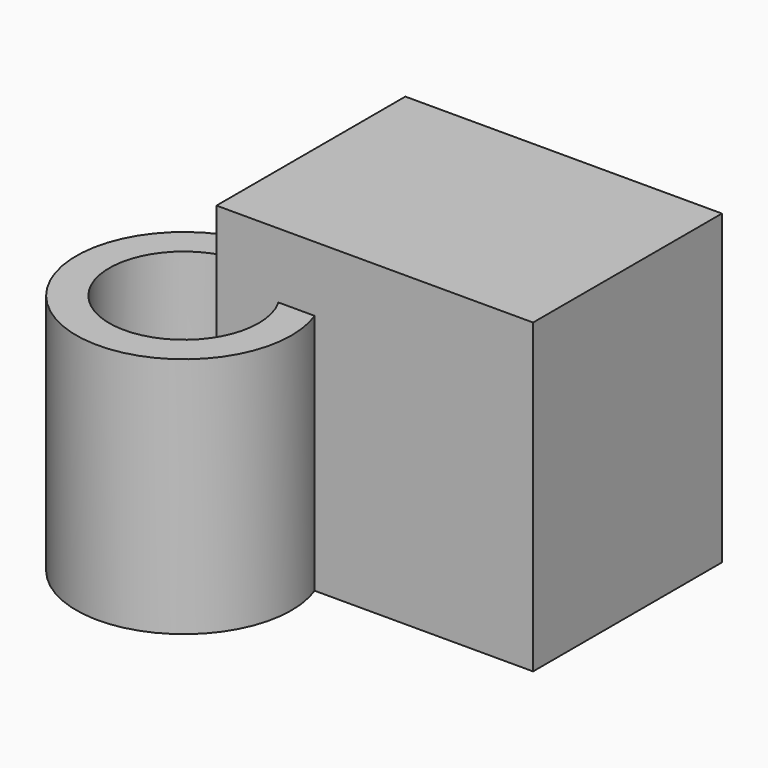
from build123d import *

# Parameters (mm, degrees)
F0_W     = 51.015776
F0_H     = 38.040775
F1_DEPTH = 49.5
F2_R     = 17.349688
F2_R_2   = 12.035675
F3_DEPTH = 39


with BuildPart() as f1:
    # F0 (on Top) → F1 (new body)
    with BuildSketch(Plane.XY):
        with Locations((-60.148211, 33.298032)):
            Rectangle(F0_W, F0_H)
    extrude(amount=F1_DEPTH)


with BuildPart() as f3:
    # F2 (on Top) → F3 (new body)
    with BuildSketch(Plane.XY):
        with Locations((-72.922587, -17.39496)):
            Circle(F2_R)
        with Locations((-72.922587, -17.39496)):
            Circle(F2_R_2, mode=Mode.SUBTRACT)
    extrude(amount=F3_DEPTH)


with BuildPart() as f3_1:
    # F4: moved
    add(f3.part.moved(Location((-13.2, 25.7, 0))))


solid = Compound([f1.part, f3_1.part])
